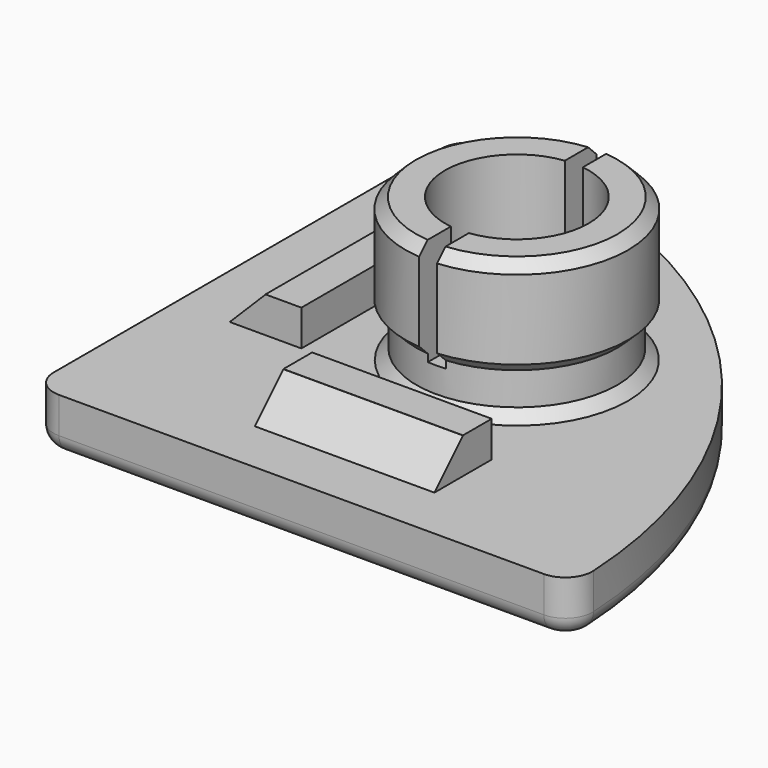
from build123d import *

# Parameters (mm, degrees)
SKETCH_R        = 6.2
SKETCH_R_2      = 4
PAD_DEPTH       = 8
PAD001_DEPTH    = 3
FILLET_R        = 1.5
FILLET001_R     = 1
SKETCH002_W     = 2
SKETCH002_H     = 10
SKETCH002_W_2   = 10
SKETCH002_H_2   = 2
PAD002_DEPTH    = 2
CHAMFER_SIZE    = 1.99
SKETCH003_R     = 6.2
SKETCH003_R_2   = 5.59
POCKET_DEPTH    = 3
SKETCH004_W     = 1
SKETCH004_H     = 14
POCKET001_DEPTH = 6
CHAMFER001_SIZE = 0.59
CHAMFER004_SIZE = 1


with BuildPart() as part:
    # Sketch → Pad (new body)
    with BuildSketch(Plane.XY):
        with Locations((15, 15)):
            Circle(SKETCH_R)
        with Locations((15, 15)):
            Circle(SKETCH_R_2, mode=Mode.SUBTRACT)
    extrude(amount=PAD_DEPTH)

    # Sketch001 (on Face3 of Pad) → Pad001 (join)
    with BuildSketch(Plane(origin=(0, 0, 0), x_dir=(1, 0, 0), z_dir=(0, 0, -1))):
        with BuildLine():
            Line((0, -28.504743), (0, 0))
            Line((0, 0), (28.504743, 0))
            ThreePointArc((30.002374, -1.584264), (29.594788, -0.469562), (28.504743, 0))
            ThreePointArc((1.584264, -30.002374), (21.216341, -21.216341), (30.002374, -1.584264))
            ThreePointArc((0, -28.504743), (0.469562, -29.594788), (1.584264, -30.002374))
        make_face()
    extrude(amount=PAD001_DEPTH)

    # Fillet
    fillet_edges = [part.edges().sort_by_distance(p)[0] for p in [
        (0, 0, -1.5),
    ]]
    fillet(fillet_edges, radius=FILLET_R)

    # Fillet001
    fillet001_edges = [part.edges().sort_by_distance(p)[0] for p in [
        (0, 15.002371, -3),
        (0.43934, 0.43934, -3),
        (0.469562, 29.594788, -3),
        (15.002371, 0, -3),
        (21.216341, 21.216341, -3),
        (29.594788, 0.469562, -3),
    ]]
    fillet(fillet001_edges, radius=FILLET001_R)

    # Sketch002 (on Face4 of Fillet001) → Pad002 (join)
    with BuildSketch(Plane.XY):
        with Locations((6, 15)):
            Rectangle(SKETCH002_W, SKETCH002_H)
        with Locations((15, 6)):
            Rectangle(SKETCH002_W_2, SKETCH002_H_2)
    extrude(amount=PAD002_DEPTH)

    # Chamfer
    chamfer_edges = [part.edges().sort_by_distance(p)[0] for p in [
        (15, 5, 0),
        (5, 15, 0),
    ]]
    chamfer(chamfer_edges, length=CHAMFER_SIZE)

    # Sketch003 → Pocket (cut)
    with BuildSketch(Plane.XY):
        with Locations((15, 15)):
            Circle(SKETCH003_R)
        with Locations((15, 15)):
            Circle(SKETCH003_R_2, mode=Mode.SUBTRACT)
    extrude(amount=POCKET_DEPTH, mode=Mode.SUBTRACT)

    # Sketch004 (on Face32 of Pocket) → Pocket001 (cut)
    with BuildSketch(Plane.XY.offset(8)):
        with Locations((15, 15)):
            Rectangle(SKETCH004_W, SKETCH004_H)
    extrude(amount=-POCKET001_DEPTH, mode=Mode.SUBTRACT)

    # Chamfer001
    chamfer001_edges = [part.edges().sort_by_distance(p)[0] for p in [
        (19.557412, 19.20357, 8),
        (19.125718, 18.77181, 3),
        (9.41, 15, 3),
        (9.41, 15, 0),
        (8.8, 15, 8),
    ]]
    chamfer(chamfer001_edges, length=CHAMFER001_SIZE)

    # Chamfer004
    chamfer004_edges = [part.edges().sort_by_distance(p)[0] for p in [
        (11, 15, 0),
    ]]
    chamfer(chamfer004_edges, length=CHAMFER004_SIZE)


solid = part.part
